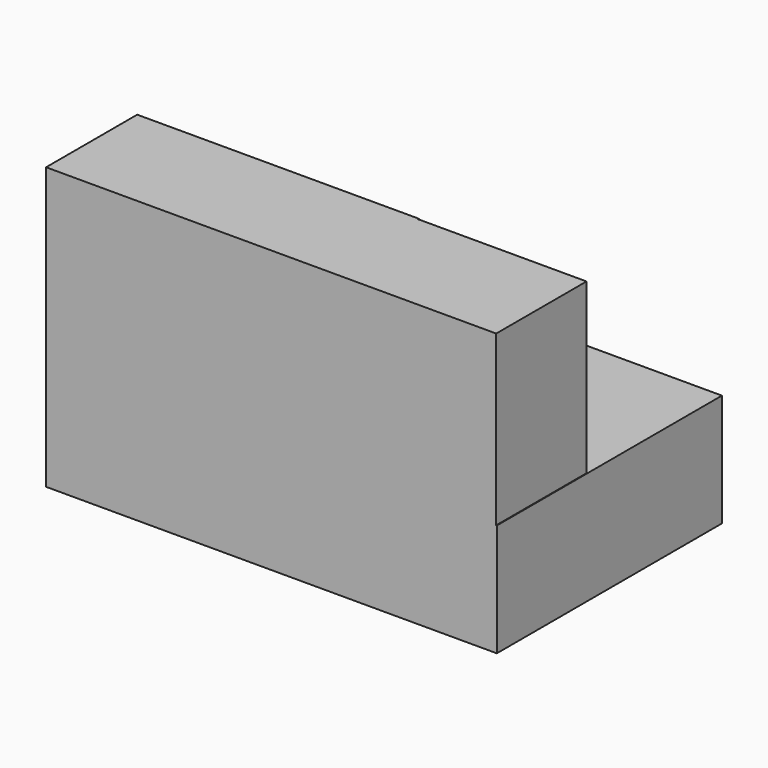
from build123d import *

# Parameters (mm, degrees)
F0_W     = 50.8
F0_H     = 31.75
F1_DEPTH = 31.75
F2_W     = 19.05
F2_H     = 19.05
F3_DEPTH = 19.05
F4_W     = 19.05
F4_H     = 19.05
F5_DEPTH = 31.751
F6_W     = 19.05
F6_H     = 12.7
F7_DEPTH = 31.75
F9_DEPTH = 50.871556


with BuildPart() as f1:
    # F0 (on Front) → F1 (new body)
    with BuildSketch(Plane.XZ):
        with Locations((25.4, 15.875)):
            Rectangle(F0_W, F0_H)
    extrude(amount=-F1_DEPTH)

    # F2 (on Right) → F3 (cut)
    with BuildSketch(Plane.YZ):
        with Locations((22.394827, 22.882153)):
            Rectangle(F2_W, F2_H)
    extrude(amount=F3_DEPTH, mode=Mode.SUBTRACT)

    # F4 (on Top) → F5 (cut, through all)
    with BuildSketch(Plane.XY):
        with Locations((41.275, 22.261919)):
            Rectangle(F4_W, F4_H)
    extrude(amount=F5_DEPTH, mode=Mode.SUBTRACT)

    # F6 (on Front) → F7 (join)
    with BuildSketch(Plane.XZ):
        with Locations((41.345556, 6.35)):
            Rectangle(F6_W, F6_H)
    extrude(amount=-F7_DEPTH)

    # F8 (on Right) → F9 (cut, through all)
    with BuildSketch(Plane.YZ):
        Polygon((31.830321, 32.020881), (12.781355, 31.822454), (31.830321, 12.970881), align=None)
    extrude(amount=F9_DEPTH, mode=Mode.SUBTRACT)


solid = f1.part
